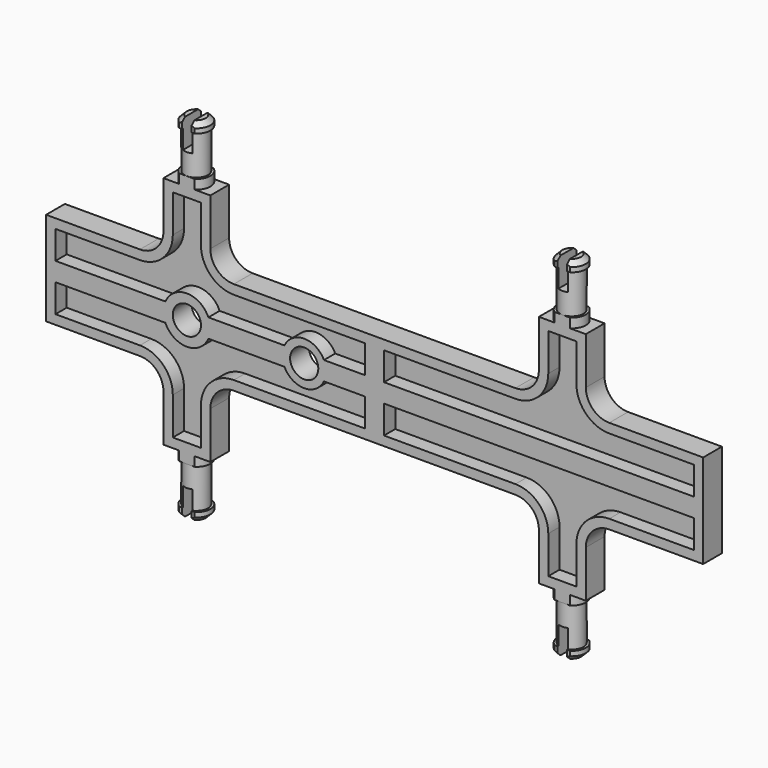
from build123d import *

# Parameters (mm, degrees)
F1_DEPTH  = 2.5
F2_T      = -2
F5_SIZE   = 1
F6_W      = 75.1674278747
F6_H      = 5
F7_DEPTH  = 37.501
F8_W      = 2
F8_H      = 10.0000095664
F9_DEPTH  = 6
F12_R     = 5
F12_R_2   = 4.6528346036
F13_DEPTH = 5
F15_D     = 6


with BuildPart() as f1:
    # F0 (on Front) → F1 (new body, symmetric)
    with BuildSketch(Plane.XZ):
        with BuildLine():
            Line((0, 10), (0, 0))
            Line((0, 0), (70, 0))
            Line((70, 0), (70, 10))
            Line((70, 10), (50, 10))
            ThreePointArc((50, 10), (46.4644660941, 11.4644660941), (45, 15))
            Line((45, 15), (45, 25))
            Line((45, 25), (35, 25))
            Line((35, 25), (35, 15))
            ThreePointArc((35, 15), (33.5355339059, 11.4644660941), (30, 10))
            Line((30, 10), (0, 10))
        make_face()
    extrude(amount=F1_DEPTH, both=True)

    # F2
    f2_openings = [f1.faces().sort_by_distance(p)[0] for p in [
        (35.933685, -2.5, 7.254637),
    ]]
    offset(amount=F2_T, openings=f2_openings)

    # F3 (on Front) → F4 (revolve)
    with BuildSketch(Plane.XZ):
        Polygon((40, 37.5), (37, 37.5), (37, 35.5), (37.5, 35.5), (37.5, 27), (37, 27), (37, 25), (40, 25), align=None)
    revolve(axis=Axis((40, 0, 31.25), (0, 0, -1)))

    # F5
    f5_edges = [f1.edges().sort_by_distance(p)[0] for p in [
        (43, 0, 37.5),
    ]]
    chamfer(f5_edges, length=F5_SIZE)

    # F6 (on face) → F7 (intersect, through all)
    with BuildSketch(Plane.XY.offset(37.5)):
        with Locations((34.6237062477, 0)):
            Rectangle(F6_W, F6_H)
    extrude(amount=-F7_DEPTH, mode=Mode.INTERSECT)

    # F8 (on face) → F9 (cut)
    with BuildSketch(Plane.XY.offset(37.5)):
        with Locations((40, 0.1014110167)):
            Rectangle(F8_W, F8_H)
    extrude(amount=-F9_DEPTH, mode=Mode.SUBTRACT)

    # F10: F1 across plane


with BuildPart() as f1_1:
    add(f1.part)
    add(f1.part.mirror(Plane.XY))

    # F11: F1 across plane


with BuildPart() as f1_2:
    add(f1_1.part)
    add(f1_1.part.mirror(Plane.YZ))

    # F12 (on face) → F13 (join, through all)
    with BuildSketch(Plane.XZ.offset(2.5)):
        with Locations((-40, 0)):
            Circle(F12_R)
        with Locations((-15, 0)):
            Circle(F12_R_2)
    extrude(amount=-F13_DEPTH)

    # F15 (through all)
    with Locations(Plane.XZ.offset(2.5)):
        with Locations((-40, 0), (-15, 0)):
            Hole(F15_D / 2)


solid = f1_2.part
